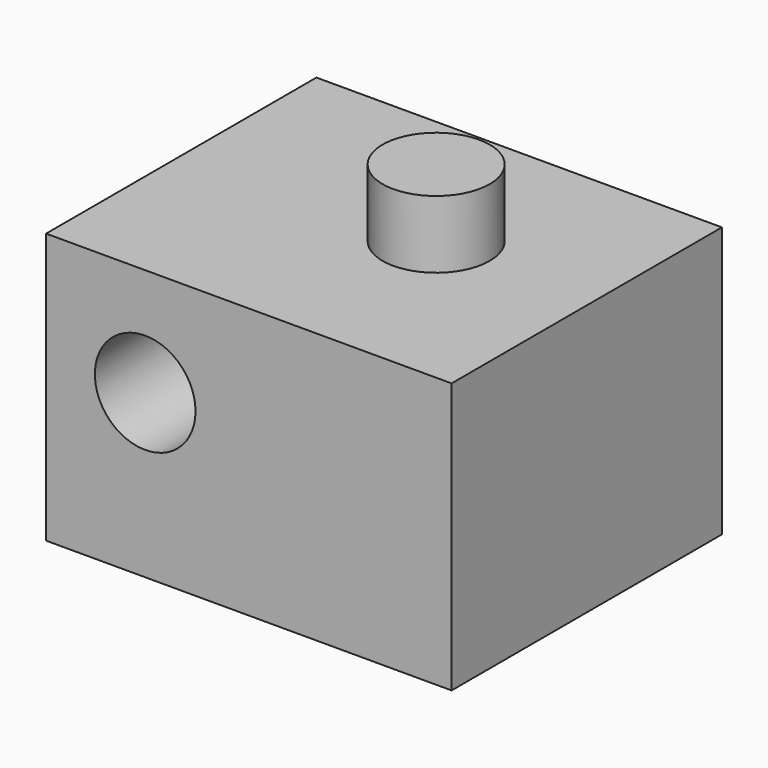
from build123d import *

# Parameters (mm, degrees)
F0_W     = 38.1
F0_H     = 31.75
F1_DEPTH = 25.4
F2_R     = 4.729521
F3_DEPTH = 25.4
F4_R     = 5.03132
F5_DEPTH = 6.35


with BuildPart() as f1:
    # F0 (on Top) → F1 (new body)
    with BuildSketch(Plane.XY):
        with Locations((19.05, 15.875)):
            Rectangle(F0_W, F0_H)
    extrude(amount=F1_DEPTH)

    # F2 (on Front) → F3 (cut)
    with BuildSketch(Plane.XZ):
        with Locations((9.311019, 15.262362)):
            Circle(F2_R)
    extrude(amount=-F3_DEPTH, mode=Mode.SUBTRACT)

    # F4 (on face) → F5 (join)
    with BuildSketch(Plane.XY.offset(25.4)):
        with Locations((23.096351, 16.941737)):
            Circle(F4_R)
    extrude(amount=F5_DEPTH)


solid = f1.part
